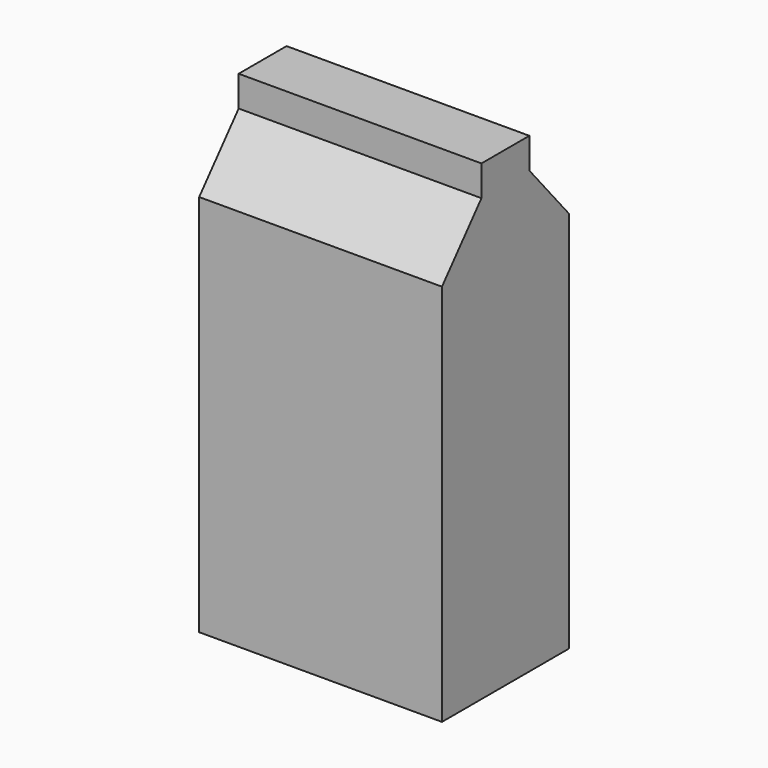
from build123d import *

# Parameters (mm, degrees)
F0_W     = 35.497162
F0_H     = 85.779794
F1_DEPTH = 27.178


with BuildPart() as f1:
    # F0 (on Right) → F1 (new body, symmetric)
    with BuildSketch(Plane.YZ):
        Rectangle(F0_W, F0_H)
        Polygon((-6.701608, 55.841524), (-17.748581, 42.889897), (17.748581, 42.889897), (6.701608, 55.841524), (6.701608, 62.698267), (0, 62.698267), (-6.701608, 62.698267), align=None)
    extrude(amount=F1_DEPTH, both=True)


solid = f1.part
